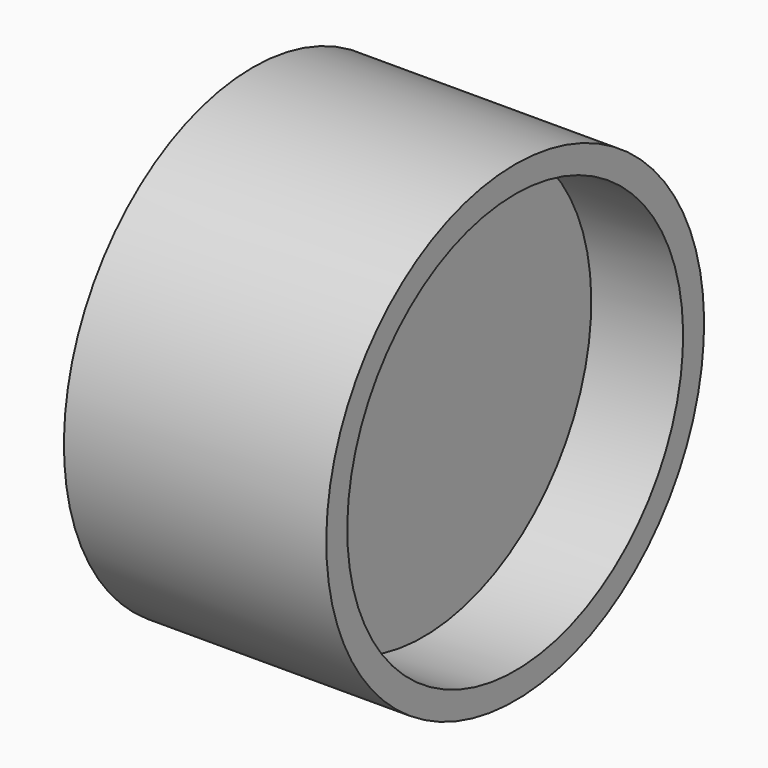
from build123d import *

# Parameters (mm, degrees)
F0_W = 15
F0_H = 40


with BuildPart() as f1:
    # F0 (on Front) → F1 (revolve)
    with BuildSketch(Plane.XZ):
        with Locations((0, 20)):
            Rectangle(F0_W, F0_H)
        Polygon((-25, 40), (-7.5, 40), (7.5, 40), (25, 40), (25, 45), (-25, 45), align=None)
    revolve(axis=Axis((0, 0, 0), (1, 0, 0)))


solid = f1.part
